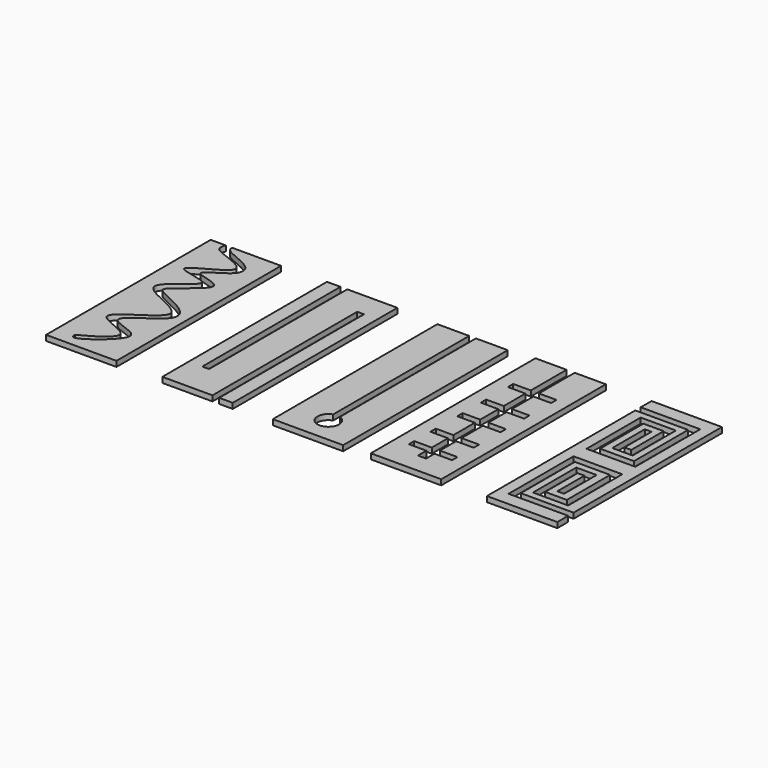
from build123d import *

# Parameters (mm, degrees)
F1_DEPTH = 2


with BuildPart() as f1:
    # F0 (on Top) → F1 (new body)
    with BuildSketch(Plane.XY):
        with BuildLine():
            Line((-54.4936697613, 57.7450618148), (-60.067804262, 57.7450618148))
            Line((-60.067804262, 57.7450618148), (-60.067804262, -18.2549381852))
            Line((-60.067804262, -18.2549381852), (-34.067804262, -18.2549381852))
            Line((-34.067804262, -18.2549381852), (-34.067804262, 57.7450618148))
            Line((-34.067804262, 57.7450618148), (-51.9936697613, 57.7450618148))
            add(Edge.make_bspline(
                [(-51.9936697613, 57.7450618148), (-52.4629934251, 56.6746355938), (-49.8273861072, 54.3464107366), (-40.343185222, 51.6480987504), (-40.0759238169, 44.8230056601), (-55.523894435, 38.7736342779), (-33.596300888, 37.3141646627), (-53.1671219133, 26.0086060064), (-50.0201929827, 23.1755137233), (-39.8121435158, 19.3814755905), (-35.0269152179, 11.6597558419), (-56.976806105, 1.6461840375), (-40.4712537079, -0.9318778808), (-40.1828019362, -6.7209624493), (-53.3029559168, -16.7168685692), (-53.6254210551, -13.6214114396), (-53.6348804684, -13.0204576716)],
                knots=[0, 0, 0, 0, 0.0483829166, 0.1288871341, 0.1869865831, 0.2675960687, 0.3447471452, 0.4426318942, 0.4814414776, 0.5688448621, 0.6337179637, 0.7356602885, 0.8137458491, 0.868297409, 0.9658774059, 1, 1, 1, 1], degree=3))
            add(Edge.make_bspline(
                [(-54.4936697613, 57.7450618148), (-55.3844022158, 55.2158245471), (-53.7533386204, 53.2258818782), (-34.4413174971, 48.0769144028), (-64.5851021567, 37.5419271037), (-35.9934207597, 36.9942315676), (-66.3514989195, 23.320752015), (-26.7627198037, 15.7967110833), (-64.9602530129, 1.0987555401), (-34.5540029884, -3.4096263742), (-51.5843439743, -11.9757932148), (-53.6348804684, -13.0204576716)],
                knots=[0, 0, 0, 0, 0.0680094093, 0.1727775799, 0.2927385739, 0.3929328419, 0.5100486748, 0.6421301632, 0.7764579964, 0.8864000361, 1, 1, 1, 1], degree=3))
        make_face()
    extrude(amount=F1_DEPTH)


with BuildPart() as f1b:
    # F0 (on Top) → F1, piece 2 (new body)
    with BuildSketch(Plane.XY):
        Polygon((-12.4945518374, 58.2126012295), (-17.4945518374, 58.2126012295), (-17.4945518374, -17.7873987705), (1.0054481626, -17.7873987705), (1.0054481626, 49.0476191044), (3.5054481626, 49.0476191044), (3.5054481626, -17.7873987705), (8.5054481626, -17.7873987705), (8.5054481626, 58.2126012295), (-9.9945518374, 58.2126012295), (-9.9945518374, -5.579427816), (-12.4945518374, -5.579427816), align=None)
    extrude(amount=F1_DEPTH)


with BuildPart() as f1c:
    # F0 (on Top) → F1, piece 3 (new body)
    with BuildSketch(Plane.XY):
        with BuildLine():
            Line((35.6434132218, 57.4537292123), (23.8934132218, 57.4537292123))
            Line((23.8934132218, 57.4537292123), (23.8934132218, -18.5462707877))
            Line((23.8934132218, -18.5462707877), (49.8934132218, -18.5462707877))
            Line((49.8934132218, -18.5462707877), (49.8934132218, 57.4537292123))
            Line((49.8934132218, 57.4537292123), (38.1434132218, 57.4537292123))
            Line((38.1434132218, 57.4537292123), (38.1434132218, -5.3578090473))
            ThreePointArc((38.1434132218, -5.3578090473), (40.1232386643, -6.8098105876), (40.8784555645, -9.1459751129))
            ThreePointArc((40.8784555645, -9.1459751129), (34.5463598942, -12.3780506125), (35.6434132218, -5.3539334716))
            Line((35.6434132218, -5.3539334716), (35.6434132218, 57.4537292123))
        make_face()
    extrude(amount=F1_DEPTH)


with BuildPart() as f1d:
    # F0 (on Top) → F1, piece 4 (new body)
    with BuildSketch(Plane.XY):
        Polygon((70.7966893911, 58.487693429), (59.2966893911, 58.487693429), (59.2966893911, -17.512306571), (85.2966893911, -17.512306571), (85.2966893911, 58.487693429), (73.7966893911, 58.487693429), (73.7966893911, 41.9649878144), (80.2966893911, 41.9649878144), (80.2966893911, 39.4649878144), (73.7966893911, 39.4649878144), (73.7966893911, 29.4879153371), (80.2966893911, 29.4879153371), (80.2966893911, 26.9879153371), (73.7966893911, 26.9879153371), (73.7966893911, 18.6173710972), (80.2966893911, 18.6173710972), (80.2966893911, 16.1173710972), (73.7966893911, 16.1173710972), (73.7966893911, 6.2262132391), (80.2966893911, 6.2262132391), (80.2966893911, 3.7262132391), (73.7966893911, 3.7262132391), (73.7966893911, -3.7508611009), (80.2966893911, -3.7508611009), (80.2966893911, -6.2508611009), (73.7966893911, -6.2508611009), (73.7966893911, -10.1480139419), (70.7966893911, -10.1480139419), (70.7966893911, -6.2508611009), (64.2966893911, -6.2508611009), (64.2966893911, -3.7508611009), (70.7966893911, -3.7508611009), (70.7966893911, 3.7262132391), (64.2966893911, 3.7262132391), (64.2966893911, 6.2262132391), (70.7966893911, 6.2262132391), (70.7966893911, 16.1173710972), (64.2966893911, 16.1173710972), (64.2966893911, 18.6173710972), (70.7966893911, 18.6173710972), (70.7966893911, 26.9879153371), (64.2966893911, 26.9879153371), (64.2966893911, 29.4879153371), (70.7966893911, 29.4879153371), (70.7966893911, 39.4649878144), (64.2966893911, 39.4649878144), (64.2966893911, 41.9649878144), (70.7966893911, 41.9649878144), align=None)
    extrude(amount=F1_DEPTH)


with BuildPart() as f1e:
    # F0 (on Top) → F1, piece 5 (new body)
    with BuildSketch(Plane.XY):
        Polygon((128.1262701154, 58.5486292839), (102.1262701154, 58.5486292839), (102.1262701154, 53.5486292839), (124.1262701154, 53.5486292839), (124.1262701154, 23.5486292839), (106.1262701154, 23.5486292839), (106.1262701154, 48.5486292839), (119.1262701154, 48.5486292839), (119.1262701154, 28.5486292839), (111.6262701154, 28.5486292839), (111.6262701154, 43.5486292839), (114.1262701154, 43.5486292839), (114.1262701154, 31.0486292839), (116.6262701154, 31.0486292839), (116.6262701154, 46.0486292839), (109.1262701154, 46.0486292839), (109.1262701154, 26.0486292839), (121.6262701154, 26.0486292839), (121.6262701154, 51.0486292839), (102.1262701154, 51.0486292839), (102.1262701154, -17.4513707161), (128.1262701154, -17.4513707161), (128.1262701154, -12.4513707161), (106.1262701154, -12.4513707161), (106.1262701154, 17.5486292839), (124.1262701154, 17.5486292839), (124.1262701154, -7.4513707161), (111.1262701154, -7.4513707161), (111.1262701154, 12.5486292839), (118.6262701154, 12.5486292839), (118.6262701154, -2.4513707161), (116.1262701154, -2.4513707161), (116.1262701154, 10.0486292839), (113.6262701154, 10.0486292839), (113.6262701154, -4.9513707161), (121.6262701154, -4.9513707161), (121.6262701154, 15.0486292839), (108.6262701154, 15.0486292839), (108.6262701154, -9.9513707161), (128.1262701154, -9.9513707161), align=None)
    extrude(amount=F1_DEPTH)


solid = Compound([f1.part, f1b.part, f1c.part, f1d.part, f1e.part])
